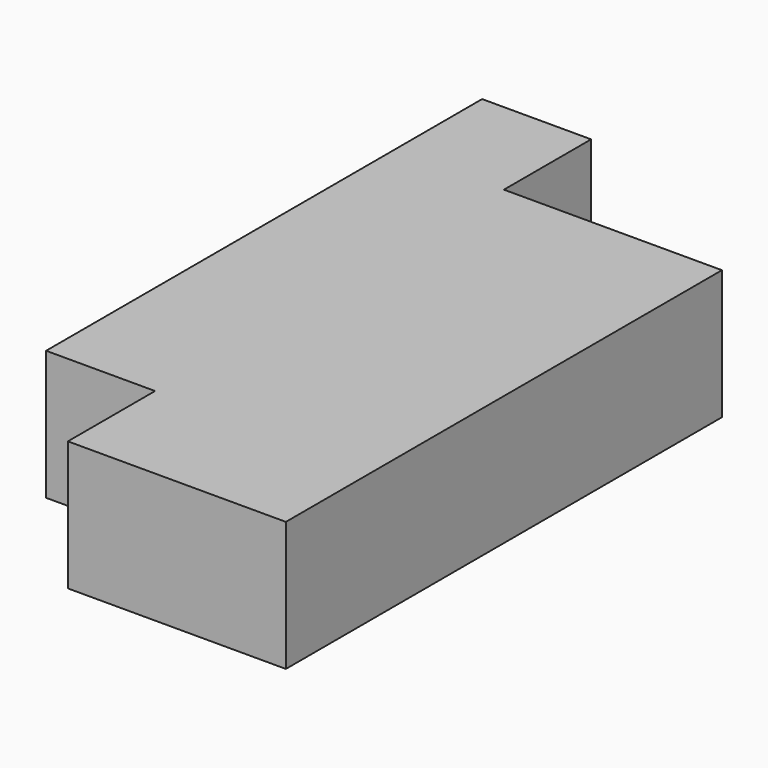
from build123d import *

# Parameters (mm, degrees)
F0_W     = 24.38
F0_H     = 121.92
F1_DEPTH = 28.96


with BuildPart() as f1:
    # F0 (on Top) → F1 (new body)
    with BuildSketch(Plane.XY):
        Polygon((-53.279878, 89.543047), (-77.659878, 89.543047), (-77.659878, -32.376953), (-53.279878, -32.376953), (-53.279878, 65.163047), align=None)
        Polygon((-28.899878, 65.163047), (-53.279878, 65.163047), (-53.279878, -32.376953), (-53.279878, -56.756953), (-28.899878, -56.756953), align=None)
        with Locations((-16.709878, 4.203047)):
            Rectangle(F0_W, F0_H)
    extrude(amount=F1_DEPTH)


solid = f1.part
